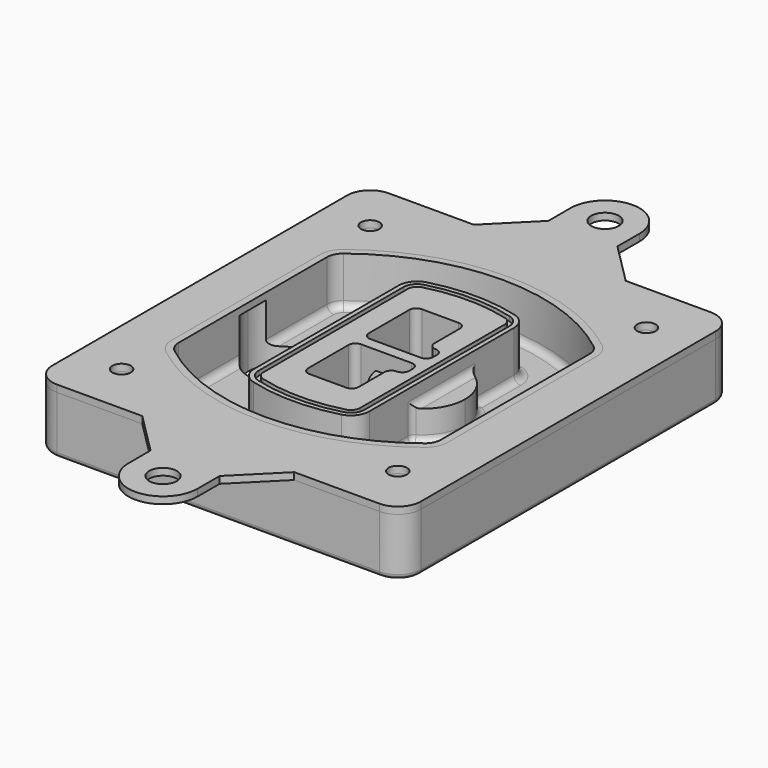
from build123d import *

# Parameters (mm, degrees)
F0_R      = 4
F1_DEPTH  = 25
F2_DEPTH  = 3
F3_DEPTH  = 18
F5_DEPTH  = 21
F6_DEPTH  = 2
F8_DEPTH  = 20
F9_DEPTH  = 16
F10_DEPTH = 25
F7_R      = 6
F7_R_2    = 4
F11_DEPTH = 6
F13_DEPTH = 9
F14_R     = 3
F15_R     = 2
F16_R     = 6
F16_R_2   = 4
F17_DEPTH = 3


with BuildPart() as f1:
    # F0 (on Top) → F1 (new body)
    with BuildSketch(Plane.XY):
        with BuildLine():
            ThreePointArc((14.05, 38.3825811321), (16.9789321881, 31.3115133202), (24.05, 28.3825811321))
            Line((24.05, 28.3825811321), (164.05, 28.3825811321))
            ThreePointArc((164.05, 28.3825811321), (171.1210678119, 31.3115133202), (174.05, 38.3825811321))
            Line((174.05, 38.3825811321), (174.05, 198.3825811321))
            ThreePointArc((174.05, 198.3825811321), (171.1210678119, 205.4536489439), (164.05, 208.3825811321))
            Line((164.05, 208.3825811321), (24.05, 208.3825811321))
            ThreePointArc((24.05, 208.3825811321), (16.9789321881, 205.4536489439), (14.05, 198.3825811321))
            Line((14.05, 198.3825811321), (14.05, 38.3825811321))
        make_face()
        with Locations((34.05, 50.8825811321)):
            Circle(F0_R, mode=Mode.SUBTRACT)
        with Locations((154.05, 50.8825811321)):
            Circle(F0_R, mode=Mode.SUBTRACT)
        with BuildLine():
            ThreePointArc((30.05, 158.6760234193), (31.4679615202, 164.8154295545), (35.4346153846, 169.7112011673))
            ThreePointArc((35.4346153846, 169.7112011673), (94.05, 189.8825811321), (152.6653846154, 169.7112011673))
            ThreePointArc((152.6653846154, 169.7112011673), (156.6320384798, 164.8154295545), (158.05, 158.6760234193))
            Line((158.05, 158.6760234193), (158.05, 78.0891388448))
            ThreePointArc((158.05, 78.0891388448), (156.6320384798, 71.9497327097), (152.6653846154, 67.0539610969))
            ThreePointArc((152.6653846154, 67.0539610969), (94.05, 46.8825811321), (35.4346153846, 67.0539610969))
            ThreePointArc((35.4346153846, 67.0539610969), (31.4679615202, 71.9497327097), (30.05, 78.0891388448))
            Line((30.05, 78.0891388448), (30.05, 158.6760234193))
        make_face(mode=Mode.SUBTRACT)
        with Locations((34.05, 185.8825811321)):
            Circle(F0_R, mode=Mode.SUBTRACT)
        with Locations((154.05, 185.8825811321)):
            Circle(F0_R, mode=Mode.SUBTRACT)
        with BuildLine():
            ThreePointArc((152.6653846154, 169.7112011673), (94.05, 189.8825811321), (35.4346153846, 169.7112011673))
            ThreePointArc((35.4346153846, 169.7112011673), (31.4679615202, 164.8154295545), (30.05, 158.6760234193))
            Line((30.05, 158.6760234193), (30.05, 78.0891388448))
            ThreePointArc((30.05, 78.0891388448), (31.4679615202, 71.9497327097), (35.4346153846, 67.0539610969))
            ThreePointArc((35.4346153846, 67.0539610969), (94.05, 46.8825811321), (152.6653846154, 67.0539610969))
            ThreePointArc((152.6653846154, 67.0539610969), (156.6320384798, 71.9497327097), (158.05, 78.0891388448))
            Line((158.05, 78.0891388448), (158.05, 158.6760234193))
            ThreePointArc((158.05, 158.6760234193), (156.6320384798, 164.8154295545), (152.6653846154, 169.7112011673))
        make_face()
        with BuildLine():
            Line((34.05, 78.0891388448), (34.05, 158.6760234193))
            ThreePointArc((34.05, 158.6760234193), (35.0628296573, 163.0613135158), (37.8961538462, 166.5582932393))
            ThreePointArc((37.8961538462, 166.5582932393), (94.05, 185.8825811321), (150.2038461538, 166.5582932393))
            ThreePointArc((150.2038461538, 166.5582932393), (153.0371703427, 163.0613135158), (154.05, 158.6760234193))
            Line((154.05, 158.6760234193), (154.05, 78.0891388448))
            ThreePointArc((154.05, 78.0891388448), (153.0371703427, 73.7038487483), (150.2038461538, 70.2068690248))
            ThreePointArc((150.2038461538, 70.2068690248), (94.05, 50.8825811321), (37.8961538462, 70.2068690248))
            ThreePointArc((37.8961538462, 70.2068690248), (35.0628296573, 73.7038487483), (34.05, 78.0891388448))
        make_face(mode=Mode.SUBTRACT)
        with BuildLine():
            ThreePointArc((37.8961538462, 166.5582932393), (35.0628296573, 163.0613135158), (34.05, 158.6760234193))
            Line((34.05, 158.6760234193), (34.05, 78.0891388448))
            ThreePointArc((34.05, 78.0891388448), (35.0628296573, 73.7038487483), (37.8961538462, 70.2068690248))
            ThreePointArc((37.8961538462, 70.2068690248), (94.05, 50.8825811321), (150.2038461538, 70.2068690248))
            ThreePointArc((150.2038461538, 70.2068690248), (153.0371703427, 73.7038487483), (154.05, 78.0891388448))
            Line((154.05, 78.0891388448), (154.05, 158.6760234193))
            ThreePointArc((154.05, 158.6760234193), (153.0371703427, 163.0613135158), (150.2038461538, 166.5582932393))
            ThreePointArc((150.2038461538, 166.5582932393), (94.05, 185.8825811321), (37.8961538462, 166.5582932393))
        make_face()
        with BuildLine():
            ThreePointArc((148.3576923077, 164.1936122933), (150.3410192399, 161.7457264869), (151.05, 158.6760234193))
            Line((151.05, 158.6760234193), (151.05, 78.0891388448))
            ThreePointArc((151.05, 78.0891388448), (150.3410192399, 75.0194357772), (148.3576923077, 72.5715499708))
            ThreePointArc((148.3576923077, 72.5715499708), (94.05, 53.8825811321), (39.7423076923, 72.5715499708))
            ThreePointArc((39.7423076923, 72.5715499708), (37.7589807601, 75.0194357772), (37.05, 78.0891388448))
            Line((37.05, 78.0891388448), (37.05, 158.6760234193))
            ThreePointArc((37.05, 158.6760234193), (37.7589807601, 161.7457264869), (39.7423076923, 164.1936122933))
            ThreePointArc((39.7423076923, 164.1936122933), (94.05, 182.8825811321), (148.3576923077, 164.1936122933))
        make_face(mode=Mode.SUBTRACT)
        with BuildLine():
            Line((151.05, 78.0891388448), (151.05, 158.6760234193))
            ThreePointArc((151.05, 158.6760234193), (150.3410192399, 161.7457264869), (148.3576923077, 164.1936122933))
            ThreePointArc((148.3576923077, 164.1936122933), (94.05, 182.8825811321), (39.7423076923, 164.1936122933))
            ThreePointArc((39.7423076923, 164.1936122933), (37.7589807601, 161.7457264869), (37.05, 158.6760234193))
            Line((37.05, 158.6760234193), (37.05, 78.0891388448))
            ThreePointArc((37.05, 78.0891388448), (37.7589807601, 75.0194357772), (39.7423076923, 72.5715499708))
            ThreePointArc((39.7423076923, 72.5715499708), (94.05, 53.8825811321), (148.3576923077, 72.5715499708))
            ThreePointArc((148.3576923077, 72.5715499708), (150.3410192399, 75.0194357772), (151.05, 78.0891388448))
        make_face()
    extrude(amount=-F1_DEPTH)

    # F0 (on Top) → F2 (join)
    with BuildSketch(Plane.XY):
        with BuildLine():
            ThreePointArc((37.8961538462, 166.5582932393), (35.0628296573, 163.0613135158), (34.05, 158.6760234193))
            Line((34.05, 158.6760234193), (34.05, 78.0891388448))
            ThreePointArc((34.05, 78.0891388448), (35.0628296573, 73.7038487483), (37.8961538462, 70.2068690248))
            ThreePointArc((37.8961538462, 70.2068690248), (94.05, 50.8825811321), (150.2038461538, 70.2068690248))
            ThreePointArc((150.2038461538, 70.2068690248), (153.0371703427, 73.7038487483), (154.05, 78.0891388448))
            Line((154.05, 78.0891388448), (154.05, 158.6760234193))
            ThreePointArc((154.05, 158.6760234193), (153.0371703427, 163.0613135158), (150.2038461538, 166.5582932393))
            ThreePointArc((150.2038461538, 166.5582932393), (94.05, 185.8825811321), (37.8961538462, 166.5582932393))
        make_face()
        with BuildLine():
            ThreePointArc((148.3576923077, 164.1936122933), (150.3410192399, 161.7457264869), (151.05, 158.6760234193))
            Line((151.05, 158.6760234193), (151.05, 78.0891388448))
            ThreePointArc((151.05, 78.0891388448), (150.3410192399, 75.0194357772), (148.3576923077, 72.5715499708))
            ThreePointArc((148.3576923077, 72.5715499708), (94.05, 53.8825811321), (39.7423076923, 72.5715499708))
            ThreePointArc((39.7423076923, 72.5715499708), (37.7589807601, 75.0194357772), (37.05, 78.0891388448))
            Line((37.05, 78.0891388448), (37.05, 158.6760234193))
            ThreePointArc((37.05, 158.6760234193), (37.7589807601, 161.7457264869), (39.7423076923, 164.1936122933))
            ThreePointArc((39.7423076923, 164.1936122933), (94.05, 182.8825811321), (148.3576923077, 164.1936122933))
        make_face(mode=Mode.SUBTRACT)
    extrude(amount=F2_DEPTH)

    # F0 (on Top) → F3 (cut)
    with BuildSketch(Plane.XY):
        with BuildLine():
            Line((151.05, 78.0891388448), (151.05, 158.6760234193))
            ThreePointArc((151.05, 158.6760234193), (150.3410192399, 161.7457264869), (148.3576923077, 164.1936122933))
            ThreePointArc((148.3576923077, 164.1936122933), (94.05, 182.8825811321), (39.7423076923, 164.1936122933))
            ThreePointArc((39.7423076923, 164.1936122933), (37.7589807601, 161.7457264869), (37.05, 158.6760234193))
            Line((37.05, 158.6760234193), (37.05, 78.0891388448))
            ThreePointArc((37.05, 78.0891388448), (37.7589807601, 75.0194357772), (39.7423076923, 72.5715499708))
            ThreePointArc((39.7423076923, 72.5715499708), (94.05, 53.8825811321), (148.3576923077, 72.5715499708))
            ThreePointArc((148.3576923077, 72.5715499708), (150.3410192399, 75.0194357772), (151.05, 78.0891388448))
        make_face()
    extrude(amount=-F3_DEPTH, mode=Mode.SUBTRACT)

    # F4 (on face) → F5 (join, through all)
    with BuildSketch(Plane.XY.offset(3)):
        with BuildLine():
            ThreePointArc((69.05, 79.13605345), (70.6988454002, 74.2716074128), (74.9657088123, 71.4123412437))
            ThreePointArc((74.9657088123, 71.4123412437), (94.05, 68.8825811321), (113.1342911877, 71.4123412437))
            ThreePointArc((113.1342911877, 71.4123412437), (117.4011545998, 74.2716074128), (119.05, 79.13605345))
            Line((119.05, 79.13605345), (119.05, 157.6291088141))
            ThreePointArc((119.05, 157.6291088141), (117.4011545998, 162.4935548514), (113.1342911877, 165.3528210204))
            ThreePointArc((113.1342911877, 165.3528210204), (94.05, 167.8825811321), (74.9657088123, 165.3528210204))
            ThreePointArc((74.9657088123, 165.3528210204), (70.6988454002, 162.4935548514), (69.05, 157.6291088141))
            Line((69.05, 157.6291088141), (69.05, 79.13605345))
        make_face()
        with BuildLine():
            ThreePointArc((112.6132183908, 163.4218929688), (115.8133659499, 161.2774433421), (117.05, 157.6291088141))
            Line((117.05, 157.6291088141), (117.05, 79.13605345))
            ThreePointArc((117.05, 79.13605345), (115.8133659499, 75.4877189221), (112.6132183908, 73.3432692953))
            ThreePointArc((112.6132183908, 73.3432692953), (94.05, 70.8825811321), (75.4867816092, 73.3432692953))
            ThreePointArc((75.4867816092, 73.3432692953), (72.2866340501, 75.4877189221), (71.05, 79.13605345))
            Line((71.05, 79.13605345), (71.05, 157.6291088141))
            ThreePointArc((71.05, 157.6291088141), (72.2866340501, 161.2774433421), (75.4867816092, 163.4218929688))
            ThreePointArc((75.4867816092, 163.4218929688), (94.05, 165.8825811321), (112.6132183908, 163.4218929688))
        make_face(mode=Mode.SUBTRACT)
        with BuildLine():
            Line((117.05, 79.13605345), (117.05, 157.6291088141))
            ThreePointArc((117.05, 157.6291088141), (115.8133659499, 161.2774433421), (112.6132183908, 163.4218929688))
            ThreePointArc((112.6132183908, 163.4218929688), (94.05, 165.8825811321), (75.4867816092, 163.4218929688))
            ThreePointArc((75.4867816092, 163.4218929688), (72.2866340501, 161.2774433421), (71.05, 157.6291088141))
            Line((71.05, 157.6291088141), (71.05, 79.13605345))
            ThreePointArc((71.05, 79.13605345), (72.2866340501, 75.4877189221), (75.4867816092, 73.3432692953))
            ThreePointArc((75.4867816092, 73.3432692953), (94.05, 70.8825811321), (112.6132183908, 73.3432692953))
            ThreePointArc((112.6132183908, 73.3432692953), (115.8133659499, 75.4877189221), (117.05, 79.13605345))
        make_face()
        with BuildLine():
            ThreePointArc((112.0921455939, 161.4909649173), (114.2255772999, 160.0613318328), (115.05, 157.6291088141))
            Line((115.05, 157.6291088141), (115.05, 79.13605345))
            ThreePointArc((115.05, 79.13605345), (114.2255772999, 76.7038304314), (112.0921455939, 75.2741973469))
            ThreePointArc((112.0921455939, 75.2741973469), (94.05, 72.8825811321), (76.0078544061, 75.2741973469))
            ThreePointArc((76.0078544061, 75.2741973469), (73.8744227001, 76.7038304314), (73.05, 79.13605345))
            Line((73.05, 79.13605345), (73.05, 157.6291088141))
            ThreePointArc((73.05, 157.6291088141), (73.8744227001, 160.0613318328), (76.0078544061, 161.4909649173))
            ThreePointArc((76.0078544061, 161.4909649173), (94.05, 163.8825811321), (112.0921455939, 161.4909649173))
        make_face(mode=Mode.SUBTRACT)
        with BuildLine():
            Line((115.05, 79.13605345), (115.05, 157.6291088141))
            ThreePointArc((115.05, 157.6291088141), (114.2255772999, 160.0613318328), (112.0921455939, 161.4909649173))
            ThreePointArc((112.0921455939, 161.4909649173), (94.05, 163.8825811321), (76.0078544061, 161.4909649173))
            ThreePointArc((76.0078544061, 161.4909649173), (73.8744227001, 160.0613318328), (73.05, 157.6291088141))
            Line((73.05, 157.6291088141), (73.05, 79.13605345))
            ThreePointArc((73.05, 79.13605345), (73.8744227001, 76.7038304314), (76.0078544061, 75.2741973469))
            ThreePointArc((76.0078544061, 75.2741973469), (94.05, 72.8825811321), (112.0921455939, 75.2741973469))
            ThreePointArc((112.0921455939, 75.2741973469), (114.2255772999, 76.7038304314), (115.05, 79.13605345))
        make_face()
        with BuildLine():
            Line((86.05, 115.8825811321), (108.05, 115.8825811321))
            ThreePointArc((108.05, 115.8825811321), (110.1713203436, 115.0039014756), (111.05, 112.8825811321))
            Line((111.05, 112.8825811321), (111.05, 110.8825811321))
            ThreePointArc((111.05, 110.8825811321), (110.1713203436, 108.7612607885), (108.05, 107.8825811321))
            ThreePointArc((108.05, 107.8825811321), (105.9286796564, 107.0039014756), (105.05, 104.8825811321))
            Line((105.05, 104.8825811321), (105.05, 90.8825811321))
            ThreePointArc((105.05, 90.8825811321), (104.1713203436, 88.7612607885), (102.05, 87.8825811321))
            Line((102.05, 87.8825811321), (86.05, 87.8825811321))
            ThreePointArc((86.05, 87.8825811321), (83.9286796564, 88.7612607885), (83.05, 90.8825811321))
            Line((83.05, 90.8825811321), (83.05, 112.8825811321))
            ThreePointArc((83.05, 112.8825811321), (83.9286796564, 115.0039014756), (86.05, 115.8825811321))
        make_face(mode=Mode.SUBTRACT)
        with BuildLine():
            ThreePointArc((86.05, 120.8825811321), (83.9286796564, 121.7612607885), (83.05, 123.8825811321))
            Line((83.05, 123.8825811321), (83.05, 145.8825811321))
            ThreePointArc((83.05, 145.8825811321), (83.9286796564, 148.0039014756), (86.05, 148.8825811321))
            Line((86.05, 148.8825811321), (102.05, 148.8825811321))
            ThreePointArc((102.05, 148.8825811321), (104.1713203436, 148.0039014756), (105.05, 145.8825811321))
            Line((105.05, 145.8825811321), (105.05, 131.8825811321))
            ThreePointArc((105.05, 131.8825811321), (105.9286796564, 129.7612607885), (108.05, 128.8825811321))
            ThreePointArc((108.05, 128.8825811321), (110.1713203436, 128.0039014756), (111.05, 125.8825811321))
            Line((111.05, 125.8825811321), (111.05, 123.8825811321))
            ThreePointArc((111.05, 123.8825811321), (110.1713203436, 121.7612607885), (108.05, 120.8825811321))
            Line((108.05, 120.8825811321), (86.05, 120.8825811321))
        make_face(mode=Mode.SUBTRACT)
    extrude(amount=-F5_DEPTH)

    # F4 (on face) → F6 (cut)
    with BuildSketch(Plane.XY.offset(3)):
        with BuildLine():
            Line((117.05, 79.13605345), (117.05, 157.6291088141))
            ThreePointArc((117.05, 157.6291088141), (115.8133659499, 161.2774433421), (112.6132183908, 163.4218929688))
            ThreePointArc((112.6132183908, 163.4218929688), (94.05, 165.8825811321), (75.4867816092, 163.4218929688))
            ThreePointArc((75.4867816092, 163.4218929688), (72.2866340501, 161.2774433421), (71.05, 157.6291088141))
            Line((71.05, 157.6291088141), (71.05, 79.13605345))
            ThreePointArc((71.05, 79.13605345), (72.2866340501, 75.4877189221), (75.4867816092, 73.3432692953))
            ThreePointArc((75.4867816092, 73.3432692953), (94.05, 70.8825811321), (112.6132183908, 73.3432692953))
            ThreePointArc((112.6132183908, 73.3432692953), (115.8133659499, 75.4877189221), (117.05, 79.13605345))
        make_face()
        with BuildLine():
            ThreePointArc((112.0921455939, 161.4909649173), (114.2255772999, 160.0613318328), (115.05, 157.6291088141))
            Line((115.05, 157.6291088141), (115.05, 79.13605345))
            ThreePointArc((115.05, 79.13605345), (114.2255772999, 76.7038304314), (112.0921455939, 75.2741973469))
            ThreePointArc((112.0921455939, 75.2741973469), (94.05, 72.8825811321), (76.0078544061, 75.2741973469))
            ThreePointArc((76.0078544061, 75.2741973469), (73.8744227001, 76.7038304314), (73.05, 79.13605345))
            Line((73.05, 79.13605345), (73.05, 157.6291088141))
            ThreePointArc((73.05, 157.6291088141), (73.8744227001, 160.0613318328), (76.0078544061, 161.4909649173))
            ThreePointArc((76.0078544061, 161.4909649173), (94.05, 163.8825811321), (112.0921455939, 161.4909649173))
        make_face(mode=Mode.SUBTRACT)
    extrude(amount=-F6_DEPTH, mode=Mode.SUBTRACT)

    # F7 (on face) → F8 (join)
    with BuildSketch(Plane(origin=(0, 0, -25), x_dir=(1, 0, 0), z_dir=(0, 0, -1))):
        with BuildLine():
            ThreePointArc((97.33842436, -118.3825811321), (110.8067035675, -104.9143019245), (124.274982775, -118.3825811321))
            Line((124.274982775, -118.3825811321), (129.274982775, -118.3825811321))
            ThreePointArc((129.274982775, -118.3825811321), (110.8067035675, -99.9143019245), (92.33842436, -118.3825811321))
            Line((92.33842436, -118.3825811321), (97.33842436, -118.3825811321))
        make_face()
        with BuildLine():
            Line((97.33842436, -118.3825811321), (124.274982775, -118.3825811321))
            ThreePointArc((124.274982775, -118.3825811321), (110.8067035675, -104.9143019245), (97.33842436, -118.3825811321))
        make_face()
        with BuildLine():
            ThreePointArc((97.33842436, -118.3825811321), (110.8067035675, -131.8508603396), (124.274982775, -118.3825811321))
            Line((124.274982775, -118.3825811321), (97.33842436, -118.3825811321))
        make_face()
        with BuildLine():
            Line((129.274982775, -118.3825811321), (124.274982775, -118.3825811321))
            ThreePointArc((124.274982775, -118.3825811321), (110.8067035675, -131.8508603396), (97.33842436, -118.3825811321))
            Line((97.33842436, -118.3825811321), (92.33842436, -118.3825811321))
            ThreePointArc((92.33842436, -118.3825811321), (110.8067035675, -136.8508603396), (129.274982775, -118.3825811321))
        make_face()
    extrude(amount=-F8_DEPTH)

    # F7 (on face) → F9 (cut)
    with BuildSketch(Plane(origin=(0, 0, -25), x_dir=(1, 0, 0), z_dir=(0, 0, -1))):
        with BuildLine():
            Line((97.33842436, -118.3825811321), (124.274982775, -118.3825811321))
            ThreePointArc((124.274982775, -118.3825811321), (110.8067035675, -104.9143019245), (97.33842436, -118.3825811321))
        make_face()
        with BuildLine():
            ThreePointArc((97.33842436, -118.3825811321), (110.8067035675, -131.8508603396), (124.274982775, -118.3825811321))
            Line((124.274982775, -118.3825811321), (97.33842436, -118.3825811321))
        make_face()
    extrude(amount=-F9_DEPTH, mode=Mode.SUBTRACT)

    # F7 (on face) → F10 (cut)
    with BuildSketch(Plane(origin=(0, 0, -25), x_dir=(1, 0, 0), z_dir=(0, 0, -1))):
        with BuildLine():
            Line((35.0181770675, -118.3825811321), (61.9547354825, -118.3825811321))
            ThreePointArc((61.9547354825, -118.3825811321), (48.486456275, -104.9143019245), (35.0181770675, -118.3825811321))
        make_face()
        with BuildLine():
            ThreePointArc((35.0181770675, -118.3825811321), (48.486456275, -131.8508603396), (61.9547354825, -118.3825811321))
            Line((61.9547354825, -118.3825811321), (35.0181770675, -118.3825811321))
        make_face()
    extrude(amount=-F10_DEPTH, mode=Mode.SUBTRACT)

    # F7 (on face) → F11 (cut)
    with BuildSketch(Plane(origin=(0, 0, -25), x_dir=(1, 0, 0), z_dir=(0, 0, -1))):
        with Locations((154.05, -185.8825811321)):
            Circle(F7_R)
        with Locations((154.05, -185.8825811321)):
            Circle(F7_R_2, mode=Mode.SUBTRACT)
        with Locations((154.05, -185.8825811321)):
            Circle(F7_R)
        with Locations((154.05, -185.8825811321)):
            Circle(F7_R_2, mode=Mode.SUBTRACT)
        with Locations((34.05, -185.8825811321)):
            Circle(F7_R)
        with Locations((34.05, -185.8825811321)):
            Circle(F7_R_2, mode=Mode.SUBTRACT)
        with Locations((34.05, -185.8825811321)):
            Circle(F7_R)
        with Locations((34.05, -185.8825811321)):
            Circle(F7_R_2, mode=Mode.SUBTRACT)
        with Locations((34.05, -50.8825811321)):
            Circle(F7_R)
        with Locations((34.05, -50.8825811321)):
            Circle(F7_R_2, mode=Mode.SUBTRACT)
        with Locations((34.05, -50.8825811321)):
            Circle(F7_R)
        with Locations((34.05, -50.8825811321)):
            Circle(F7_R_2, mode=Mode.SUBTRACT)
        with Locations((154.05, -50.8825811321)):
            Circle(F7_R)
        with Locations((154.05, -50.8825811321)):
            Circle(F7_R_2, mode=Mode.SUBTRACT)
        with Locations((154.05, -50.8825811321)):
            Circle(F7_R)
        with Locations((154.05, -50.8825811321)):
            Circle(F7_R_2, mode=Mode.SUBTRACT)
    extrude(amount=-F11_DEPTH, mode=Mode.SUBTRACT)

    # F12 (on face) → F13 (cut, through all)
    with BuildSketch(Plane(origin=(0, 0, -9), x_dir=(1, 0, 0), z_dir=(0, 0, -1))):
        with BuildLine():
            Line((105.05, -104.8825811321), (105.05, -100.8344273567))
            ThreePointArc((105.05, -100.8344273567), (96.6196536419, -106.5586667507), (92.5084157545, -115.8825811321))
            Line((92.5084157545, -115.8825811321), (97.5724848595, -115.8825811321))
            ThreePointArc((97.5724848595, -115.8825811321), (100.2357188154, -110.0369939039), (105.3036447004, -106.0898642673))
            ThreePointArc((105.3036447004, -106.0898642673), (105.1140958889, -105.4994012441), (105.05, -104.8825811321))
        make_face()
        with BuildLine():
            ThreePointArc((105.3036447004, -130.6752979968), (100.2357188154, -126.7281683602), (97.5724848595, -120.8825811321))
            Line((97.5724848595, -120.8825811321), (92.5084157545, -120.8825811321))
            ThreePointArc((92.5084157545, -120.8825811321), (96.6196536419, -130.2064955134), (105.05, -135.9307349074))
            Line((105.05, -135.9307349074), (105.05, -131.8825811321))
            ThreePointArc((105.05, -131.8825811321), (105.1140958889, -131.26576102), (105.3036447004, -130.6752979968))
        make_face()
        with BuildLine():
            ThreePointArc((105.3036447004, -106.0898642673), (100.2357188154, -110.0369939039), (97.5724848595, -115.8825811321))
            Line((97.5724848595, -115.8825811321), (108.05, -115.8825811321))
            ThreePointArc((108.05, -115.8825811321), (110.1713203436, -115.0039014756), (111.05, -112.8825811321))
            Line((111.05, -112.8825811321), (111.05, -110.8825811321))
            ThreePointArc((111.05, -110.8825811321), (110.1713203436, -108.7612607885), (108.05, -107.8825811321))
            ThreePointArc((108.05, -107.8825811321), (106.4101599782, -107.3947365219), (105.3036447004, -106.0898642673))
        make_face()
        with BuildLine():
            Line((108.05, -120.8825811321), (97.5724848595, -120.8825811321))
            ThreePointArc((97.5724848595, -120.8825811321), (100.2357188154, -126.7281683602), (105.3036447004, -130.6752979968))
            ThreePointArc((105.3036447004, -130.6752979968), (106.4101599782, -129.3704257422), (108.05, -128.8825811321))
            ThreePointArc((108.05, -128.8825811321), (110.1713203436, -128.0039014756), (111.05, -125.8825811321))
            Line((111.05, -125.8825811321), (111.05, -123.8825811321))
            ThreePointArc((111.05, -123.8825811321), (110.1713203436, -121.7612607885), (108.05, -120.8825811321))
        make_face()
    extrude(amount=F13_DEPTH, mode=Mode.SUBTRACT)

    # F14
    f14_edges = [f1.edges().sort_by_distance(p)[0] for p in [
        (37.05, 94.679105, -18),
        (37.05, 142.086057, -18),
        (119.05, 118.382581, -5),
        (119.05, 134.909087, -11.5),
        (119.05, 101.856075, -11.5),
        (119.05, 90.496064, -18),
        (129.274983, 118.382581, -18),
    ]]
    fillet(f14_edges, radius=F14_R)

    # F15
    f15_edges = [f1.edges().sort_by_distance(p)[0] for p in [
        (94.05, 28.382581, -25),
    ]]
    fillet(f15_edges, radius=F15_R)


with BuildPart() as f17:
    # F16 (on face) → F17 (new body, through all)
    with BuildSketch(Plane.XY):
        with BuildLine():
            Line((109.05, 226.3825811321), (109.05, 238.3825811321))
            ThreePointArc((109.05, 238.3825811321), (94.05, 253.3825811321), (79.05, 238.3825811321))
            Line((79.05, 238.3825811321), (79.05, 226.3825811321))
            Line((79.05, 226.3825811321), (61.05, 208.3825811321))
            Line((61.05, 208.3825811321), (127.05, 208.3825811321))
            Line((127.05, 208.3825811321), (109.05, 226.3825811321))
        make_face()
        with Locations((94.05, 238.3825811321)):
            Circle(F16_R, mode=Mode.SUBTRACT)
        with BuildLine():
            Line((164.05, 208.3825811321), (127.05, 208.3825811321))
            Line((127.05, 208.3825811321), (61.05, 208.3825811321))
            Line((61.05, 208.3825811321), (24.05, 208.3825811321))
            ThreePointArc((24.05, 208.3825811321), (16.9789321881, 205.4536489439), (14.05, 198.3825811321))
            Line((14.05, 198.3825811321), (14.05, 38.3825811321))
            ThreePointArc((14.05, 38.3825811321), (16.9789321881, 31.3115133202), (24.05, 28.3825811321))
            Line((24.05, 28.3825811321), (61.05, 28.3825811321))
            Line((61.05, 28.3825811321), (127.05, 28.3825811321))
            Line((127.05, 28.3825811321), (164.05, 28.3825811321))
            ThreePointArc((164.05, 28.3825811321), (171.1210678119, 31.3115133202), (174.05, 38.3825811321))
            Line((174.05, 38.3825811321), (174.05, 198.3825811321))
            ThreePointArc((174.05, 198.3825811321), (171.1210678119, 205.4536489439), (164.05, 208.3825811321))
        make_face()
        with Locations((34.05, 50.8825811321)):
            Circle(F16_R_2, mode=Mode.SUBTRACT)
        with BuildLine():
            ThreePointArc((34.05, 158.6760234193), (35.0628296573, 163.0613135158), (37.8961538462, 166.5582932393))
            ThreePointArc((37.8961538462, 166.5582932393), (94.05, 185.8825811321), (150.2038461538, 166.5582932393))
            ThreePointArc((150.2038461538, 166.5582932393), (153.0371703427, 163.0613135158), (154.05, 158.6760234193))
            Line((154.05, 158.6760234193), (154.05, 78.0891388448))
            ThreePointArc((154.05, 78.0891388448), (153.0371703427, 73.7038487483), (150.2038461538, 70.2068690248))
            ThreePointArc((150.2038461538, 70.2068690248), (94.05, 50.8825811321), (37.8961538462, 70.2068690248))
            ThreePointArc((37.8961538462, 70.2068690248), (35.0628296573, 73.7038487483), (34.05, 78.0891388448))
            Line((34.05, 78.0891388448), (34.05, 158.6760234193))
        make_face(mode=Mode.SUBTRACT)
        with Locations((154.05, 50.8825811321)):
            Circle(F16_R_2, mode=Mode.SUBTRACT)
        with Locations((34.05, 185.8825811321)):
            Circle(F16_R_2, mode=Mode.SUBTRACT)
        with Locations((154.05, 185.8825811321)):
            Circle(F16_R_2, mode=Mode.SUBTRACT)
        with BuildLine():
            Line((109.05, 10.3825811321), (127.05, 28.3825811321))
            Line((127.05, 28.3825811321), (61.05, 28.3825811321))
            Line((61.05, 28.3825811321), (79.05, 10.3825811321))
            Line((79.05, 10.3825811321), (79.05, -1.6174188679))
            ThreePointArc((79.05, -1.6174188679), (94.05, -16.6174188679), (109.05, -1.6174188679))
            Line((109.05, -1.6174188679), (109.05, 10.3825811321))
        make_face()
        with Locations((94.05, -1.6174188679)):
            Circle(F16_R, mode=Mode.SUBTRACT)
    extrude(amount=F17_DEPTH)


solid = Compound([f1.part, f17.part])
